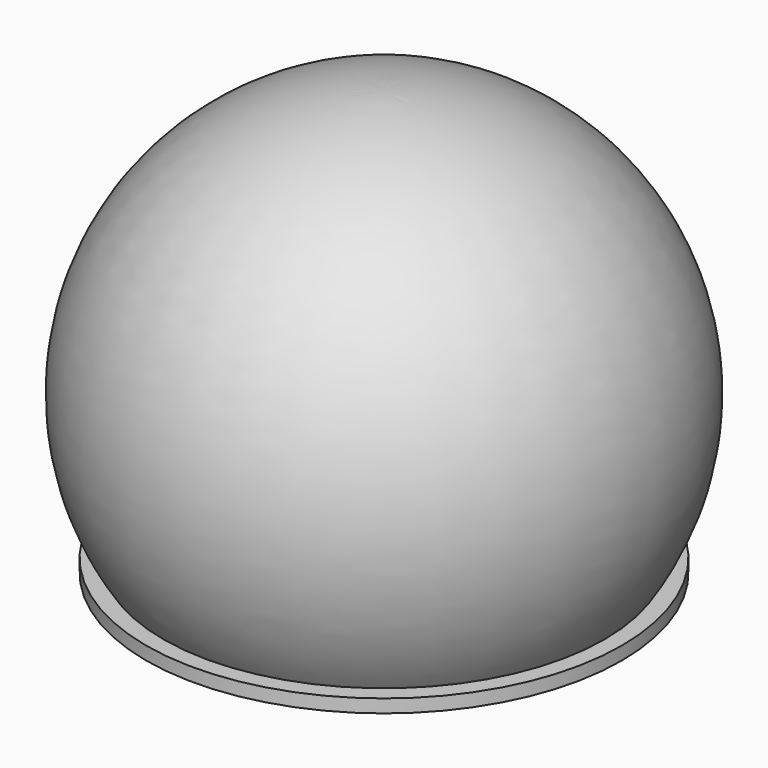
from build123d import *


with BuildPart() as f3:
    # F1 (on Front) → F3 (revolve)
    with BuildSketch(Plane.XZ):
        Polygon((0, 152.4), (0, 0), (1067.468305, 0), (1371.6, 76.2), (1371.6, 152.4), align=None)
    revolve(axis=Axis((0, 0, 1333.5), (0, 0, 1)))


with BuildPart() as f4:
    # F2 (on Front) → F4 (revolve)
    with BuildSketch(Plane.XZ):
        with BuildLine():
            Line((0, 2514.6), (0, 152.4))
            Line((0, 152.4), (1272.790933, 152.4))
            ThreePointArc((1272.790933, 152.4), (1341.639445, 1713.496673), (0, 2514.6))
        make_face()
    revolve(axis=Axis((0, 0, 1333.5), (0, 0, 1)))


solid = Compound([f3.part, f4.part])
